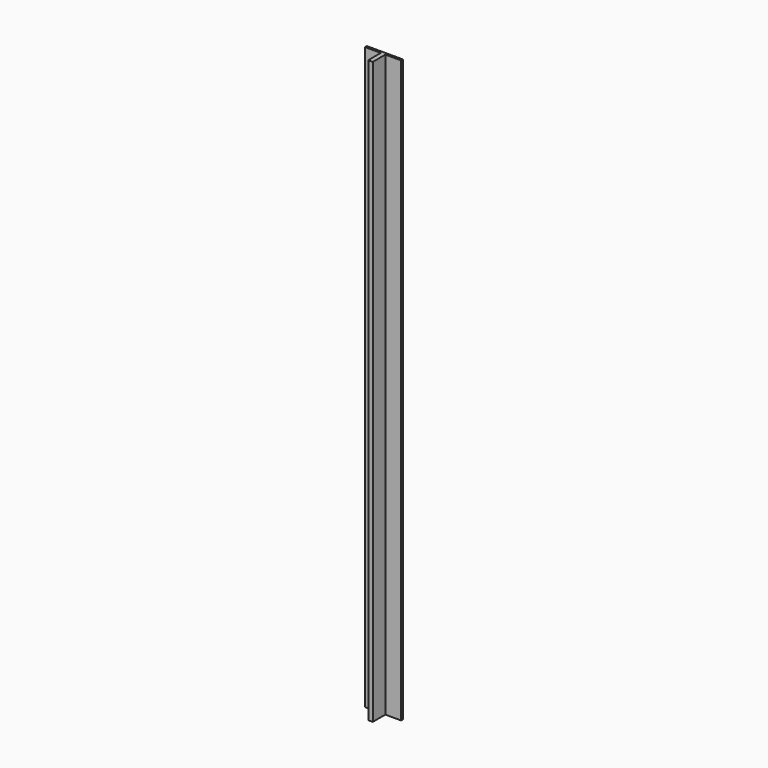
from build123d import *

# Parameters (mm, degrees)
F1_DEPTH = 258.385


with BuildPart() as f1:
    # F0 (on Top) → F1 (new body, symmetric)
    with BuildSketch(Plane.XY):
        Polygon((16, -1), (16, 1), (-16, 1), (-16, -1), (-2, -1), (-2, -15), (2, -15), (2, -1), align=None)
    extrude(amount=F1_DEPTH, both=True)


solid = f1.part
